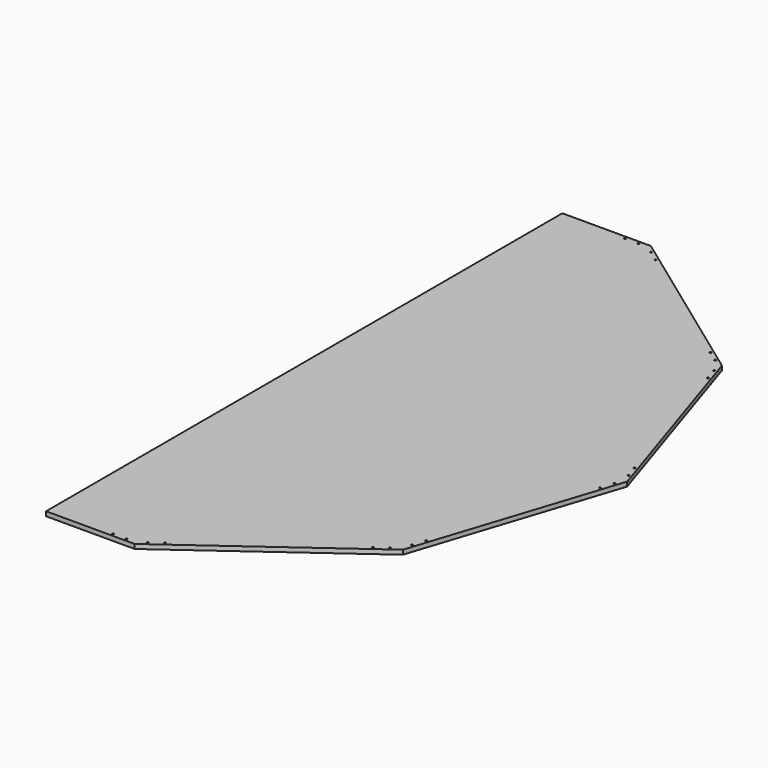
from build123d import *

# Parameters (mm, degrees)
F0_R     = 1
F1_DEPTH = 5


with BuildPart() as f1:
    # F0 (on Top) → F1 (new body)
    with BuildSketch(Plane.XY):
        Polygon((117.945844, 363), (18.319207, 363), (18.319207, -363), (117.945844, -363), (308.786238, -224.346338), (381.680782, 0), (308.786238, 224.346338), align=None)
        with Locations((91.456463, -360)):
            Circle(F0_R, mode=Mode.SUBTRACT)
        with Locations((106.456463, -360)):
            Circle(F0_R, mode=Mode.SUBTRACT)
        with Locations((125.477593, -353.81966)):
            Circle(F0_R, mode=Mode.SUBTRACT)
        with Locations((137.612848, -345.002881)):
            Circle(F0_R, mode=Mode.SUBTRACT)
        with Locations((285.592522, -237.489355)):
            Circle(F0_R, mode=Mode.SUBTRACT)
        with Locations((297.727777, -228.672576)):
            Circle(F0_R, mode=Mode.SUBTRACT)
        with Locations((309.483482, -212.492236)):
            Circle(F0_R, mode=Mode.SUBTRACT)
        with Locations((314.118737, -198.226388)):
            Circle(F0_R, mode=Mode.SUBTRACT)
        with Locations((370.641943, -24.265848)):
            Circle(F0_R, mode=Mode.SUBTRACT)
        with Locations((375.277198, -10)):
            Circle(F0_R, mode=Mode.SUBTRACT)
        with Locations((91.456463, 360)):
            Circle(F0_R, mode=Mode.SUBTRACT)
        with Locations((106.456463, 360)):
            Circle(F0_R, mode=Mode.SUBTRACT)
        with Locations((125.477593, 353.81966)):
            Circle(F0_R, mode=Mode.SUBTRACT)
        with Locations((137.612848, 345.002881)):
            Circle(F0_R, mode=Mode.SUBTRACT)
        with Locations((375.277198, 10)):
            Circle(F0_R, mode=Mode.SUBTRACT)
        with Locations((370.641943, 24.265848)):
            Circle(F0_R, mode=Mode.SUBTRACT)
        with Locations((285.592522, 237.489355)):
            Circle(F0_R, mode=Mode.SUBTRACT)
        with Locations((297.727777, 228.672576)):
            Circle(F0_R, mode=Mode.SUBTRACT)
        with Locations((314.118737, 198.226388)):
            Circle(F0_R, mode=Mode.SUBTRACT)
        with Locations((309.483482, 212.492236)):
            Circle(F0_R, mode=Mode.SUBTRACT)
    extrude(amount=F1_DEPTH)


solid = f1.part
